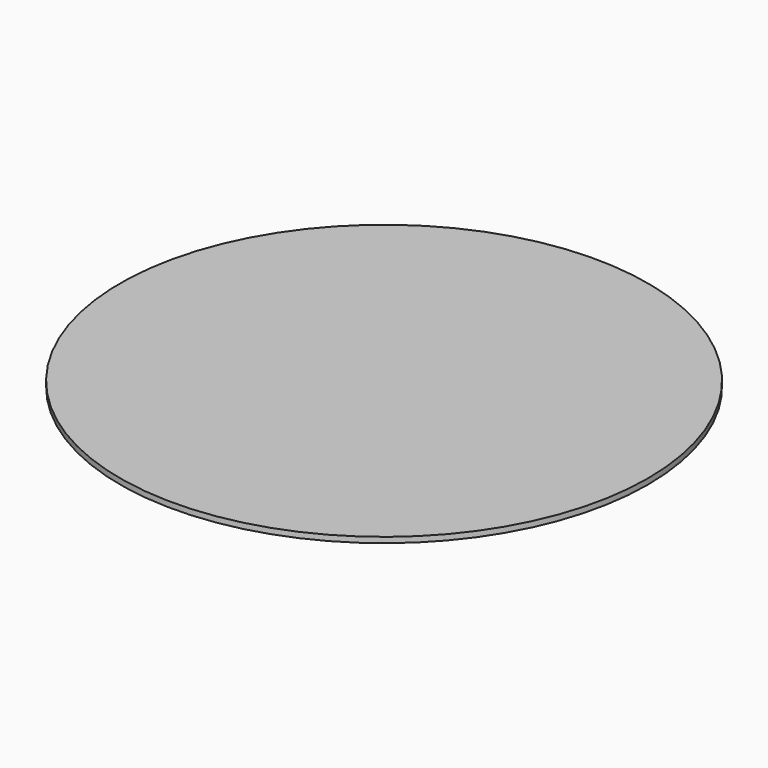
from build123d import *

# Parameters (mm, degrees)
SKETCH_R  = 19
PAD_DEPTH = 0.4


with BuildPart() as part:
    # Sketch → Pad (new body)
    with BuildSketch(Plane.XY):
        with Locations((19, 19)):
            Circle(SKETCH_R)
    extrude(amount=-PAD_DEPTH)


solid = part.part
